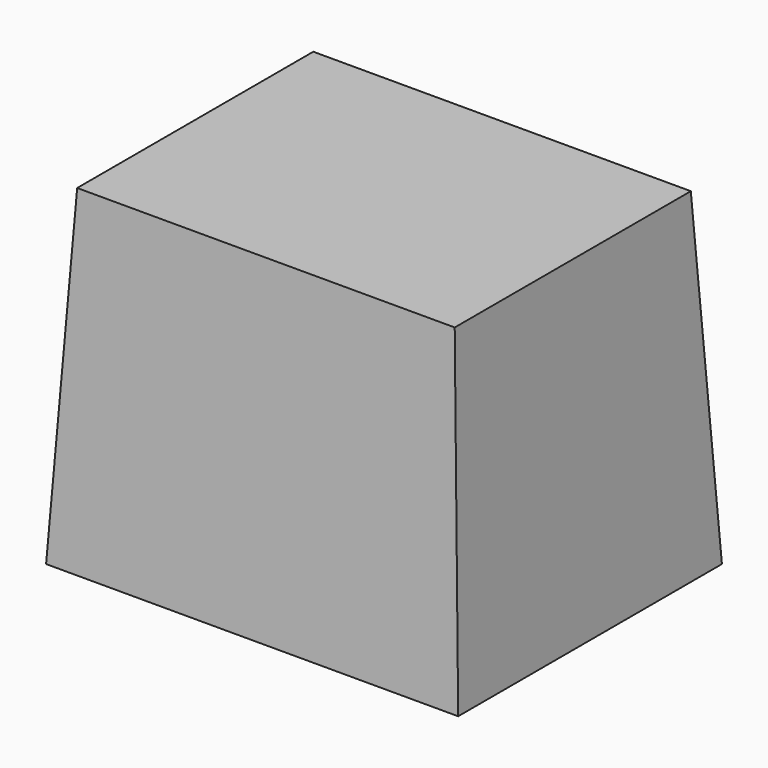
from build123d import *

# Parameters (mm, degrees)
F0_W     = 100
F0_H     = 80
F1_DEPTH = 80
F1_TAPER = 3
F2_T     = -5


with BuildPart() as f1:
    # F0 (on Top) → F1 (new body)
    with BuildSketch(Plane.XY):
        with Locations((-50, -40)):
            Rectangle(F0_W, F0_H)
    extrude(amount=F1_DEPTH, taper=F1_TAPER)

    # F2
    f2_openings = [f1.faces().sort_by_distance(p)[0] for p in [
        (-50, -40, 0),
    ]]
    offset(amount=F2_T, openings=f2_openings)


solid = f1.part
